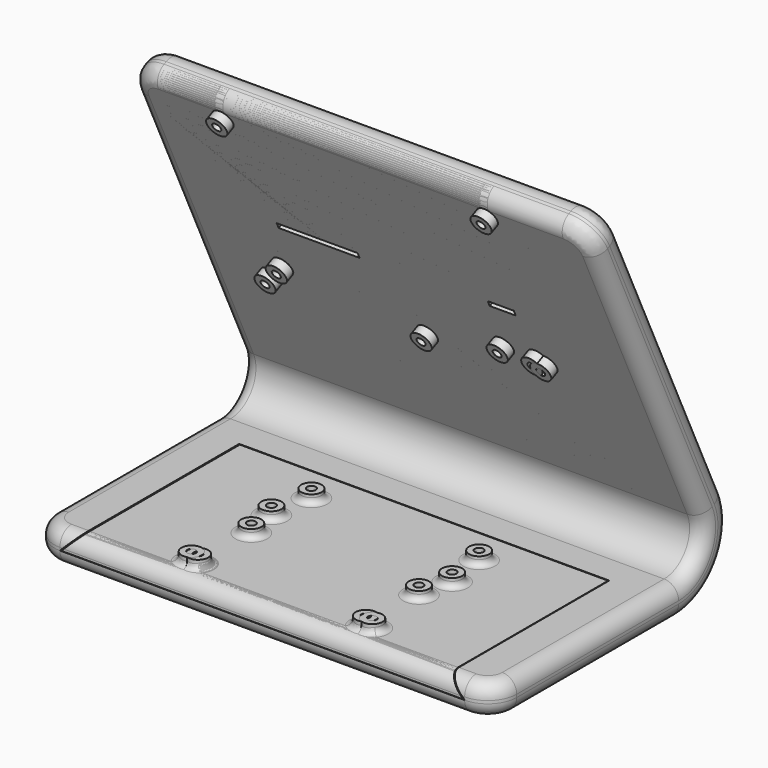
from build123d import *

# Parameters (mm, degrees)
PAD_DEPTH       = 160
SKETCH001_W     = 87
SKETCH001_H     = 130
POCKET_DEPTH    = 2
SKETCH002_W     = 79
SKETCH002_H     = 121
POCKET001_DEPTH = 7
SKETCH003_W     = 2
SKETCH003_H     = 9
SKETCH003_H_2   = 28
POCKET002_DEPTH = 2
SKETCH004_R     = 3.5
SKETCH004_R_2   = 1.5
PAD001_DEPTH    = 3
FILLET_R        = 10
FILLET001_R     = 5
FILLET002_R     = 5
POCKET003_DEPTH = 70
SKETCH014_R     = 1.5
POCKET004_DEPTH = 9
PAD002_DEPTH    = 69.9
FILLET003_R     = 5
SKETCH007_R     = 3.5
SKETCH007_R_2   = 1.5
PAD003_DEPTH    = 3
FILLET005_R     = 2
PAD004_DEPTH    = 69.9
FILLET004_R     = 5
SKETCH011_R     = 3.5
SKETCH011_R_2   = 1.5
PAD005_DEPTH    = 3
FILLET008_R     = 2
PAD006_DEPTH    = 69.9
FILLET006_R     = 5
SKETCH013_R     = 3.5
SKETCH013_R_2   = 1.5
PAD007_DEPTH    = 3
FILLET007_R     = 2
PAD008_DEPTH    = 160
SKETCH016_W     = 87
SKETCH016_H     = 130
POCKET005_DEPTH = 2
SKETCH017_W     = 79
SKETCH017_H     = 121
POCKET006_DEPTH = 7
SKETCH018_W     = 2
SKETCH018_H     = 9
SKETCH018_H_2   = 28
POCKET007_DEPTH = 2
SKETCH019_R     = 3.5
SKETCH019_R_2   = 1.5
PAD009_DEPTH    = 3
FILLET009_R     = 10
FILLET010_R     = 5
FILLET011_R     = 5
POCKET008_DEPTH = 70
SKETCH021_R     = 1.5
POCKET009_DEPTH = 9


with BuildPart() as body:
    # Sketch → Pad (new body)
    with BuildSketch(Plane.YZ):
        with BuildLine():
            Line((0, 0), (80, 0))
            ThreePointArc((80, 0), (98.554587159, 10.1794072517), (99.9387589526, 31.2975772738))
            Line((50.492422329, 137.3355883571), (99.9387589526, 31.2975772738))
            Line((40.5230366716, 132.686787478), (50.492422329, 137.3355883571))
            Line((89.9693732952, 26.6487763947), (40.5230366716, 132.686787478))
            ThreePointArc((80, 11), (89.2772812551, 16.0897029435), (89.9693732952, 26.6487763947))
            Line((0, 11), (80, 11))
            Line((0, 0), (0, 11))
        make_face()
    extrude(amount=PAD_DEPTH)

    # Sketch001 (on Face3 of Pad) → Pocket (cut)
    with BuildSketch(Plane(origin=(0, 94.0767450443, 43.8687066684), x_dir=(0, -0.4226182617, 0.906307787), z_dir=(0, 0.906307787, 0.4226182617))):
        with Locations((44.6292934096, 80)):
            Rectangle(SKETCH001_W, SKETCH001_H)
    extrude(amount=-POCKET_DEPTH, mode=Mode.SUBTRACT)

    # Sketch002 (on Face15 of Pocket) → Pocket001 (cut)
    with BuildSketch(Plane(origin=(0, 92.2641294702, 43.0234701449), x_dir=(0, -0.4226182617, 0.906307787), z_dir=(0, 0.906307787, 0.4226182617))):
        with Locations((46.6292934096, 78.5)):
            Rectangle(SKETCH002_W, SKETCH002_H)
    extrude(amount=-POCKET001_DEPTH, mode=Mode.SUBTRACT)

    # Sketch003 (on Face20 of Pocket001) → Pocket002 (cut)
    with BuildSketch(Plane(origin=(0, 85.9199749609, 40.0651423128), x_dir=(0, -0.4226182617, 0.906307787), z_dir=(0, 0.906307787, 0.4226182617))):
        with Locations((53.1292934096, 113.5)):
            Rectangle(SKETCH003_W, SKETCH003_H)
        with Locations((53.1292934096, 50)):
            Rectangle(SKETCH003_W, SKETCH003_H_2)
    extrude(amount=-POCKET002_DEPTH, mode=Mode.SUBTRACT)

    # Sketch004 (on DatumPlane) → Pad001 (join)
    with BuildSketch(Plane(origin=(0, 84.1073593869, 39.2199057893), x_dir=(0, 0.4226182617, -0.906307787), z_dir=(0, -0.906307787, -0.4226182617))):
        with Locations((-35.1292934096, 120)):
            Circle(SKETCH004_R)
        with Locations((-35.1292934096, 120)):
            Circle(SKETCH004_R_2, mode=Mode.SUBTRACT)
        with Locations((-35.1292934096, 108)):
            Circle(SKETCH004_R)
        with Locations((-35.1292934096, 108)):
            Circle(SKETCH004_R_2, mode=Mode.SUBTRACT)
        with Locations((-27.1292934096, 79)):
            Circle(SKETCH004_R)
        with Locations((-27.1292934096, 79)):
            Circle(SKETCH004_R_2, mode=Mode.SUBTRACT)
        with Locations((-27.1292934096, 25)):
            Circle(SKETCH004_R)
        with Locations((-27.1292934096, 25)):
            Circle(SKETCH004_R_2, mode=Mode.SUBTRACT)
    extrude(amount=PAD001_DEPTH)

    # Fillet
    fillet_edges = [body.edges().sort_by_distance(p)[0] for p in [
        (0, 0, 5.5),
        (160, 0, 5.5),
        (160, 45.50773, 135.011188),
        (0, 45.50773, 135.011188),
    ]]
    fillet(fillet_edges, radius=FILLET_R)

    # Fillet001
    fillet001_edges = [body.edges().sort_by_distance(p)[0] for p in [
        (157.071068, 41.760857, 130.032273),
    ]]
    fillet(fillet001_edges, radius=FILLET001_R)

    # Fillet002
    fillet002_edges = [body.edges().sort_by_distance(p)[0] for p in [
        (157.071068, 2.928932, 0),
    ]]
    fillet(fillet002_edges, radius=FILLET002_R)

    # Sketch005 (on DatumPlane) → Pocket003 (cut)
    with BuildSketch(Plane(origin=(0, 0, 0), x_dir=(0, 0, -1), z_dir=(0, -1, 0))):
        Polygon((-5, 150), (-5, 10), (-11, 16), (-11, 144), align=None)
    extrude(amount=-POCKET003_DEPTH, mode=Mode.SUBTRACT)

    # Sketch014 (on DatumPlane) → Pocket004 (cut)
    with BuildSketch(Plane(origin=(0, 92.2641294702, 43.0234701449), x_dir=(0, -0.4226182617, 0.906307787), z_dir=(0, 0.906307787, 0.4226182617))):
        with Locations((44.6292934096, 140.5)):
            Circle(SKETCH014_R)
    extrude(amount=-POCKET004_DEPTH, mode=Mode.SUBTRACT)


with BuildPart() as body001:
    # Sketch006 → Pad002 (new body)
    with BuildSketch(Plane.XZ):
        Polygon((10.5, 5.1), (149.5, 5.1), (143.7, 10.9), (16.3, 10.9), align=None)
    extrude(amount=-PAD002_DEPTH)

    # Fillet003
    fillet003_edges = [body001.edges().sort_by_distance(p)[0] for p in [
        (80, 0, 10.9),
    ]]
    fillet(fillet003_edges, radius=FILLET003_R)

    # Sketch007 (on DatumPlane) → Pad003 (join)
    with BuildSketch(Plane(origin=(0, 0, 10.9), x_dir=(-1, 0, 0), z_dir=(0, 0, 1))):
        with Locations((-51, -8.5)):
            Circle(SKETCH007_R)
        with Locations((-51, -8.5)):
            Circle(SKETCH007_R_2, mode=Mode.SUBTRACT)
        with Locations((-51, -57.5)):
            Circle(SKETCH007_R)
        with Locations((-51, -57.5)):
            Circle(SKETCH007_R_2, mode=Mode.SUBTRACT)
        with Locations((-109, -57.5)):
            Circle(SKETCH007_R)
        with Locations((-109, -57.5)):
            Circle(SKETCH007_R_2, mode=Mode.SUBTRACT)
        with Locations((-109, -8.5)):
            Circle(SKETCH007_R)
        with Locations((-109, -8.5)):
            Circle(SKETCH007_R_2, mode=Mode.SUBTRACT)
    extrude(amount=PAD003_DEPTH)

    # Fillet005
    fillet005_edges = [body001.edges().sort_by_distance(p)[0] for p in [
        (112.5, 57.5, 10.9),
        (54.5, 57.5, 10.9),
        (106.525126, 6.025126, 10.9),
        (111.474874, 10.974874, 10.9),
        (53.474874, 10.974874, 10.9),
        (48.525126, 6.025126, 10.9),
    ]]
    fillet(fillet005_edges, radius=FILLET005_R)


with BuildPart() as raspi_zero:
    # Sketch010 → Pad004 (new body)
    with BuildSketch(Plane.XZ):
        Polygon((10.5, 5.1), (149.5, 5.1), (143.7, 10.9), (16.3, 10.9), align=None)
    extrude(amount=-PAD004_DEPTH)

    # Fillet004
    fillet004_edges = [raspi_zero.edges().sort_by_distance(p)[0] for p in [
        (80, 0, 10.9),
    ]]
    fillet(fillet004_edges, radius=FILLET004_R)

    # Sketch011 (on DatumPlane) → Pad005 (join)
    with BuildSketch(Plane(origin=(0, 0, 10.9), x_dir=(-1, 0, 0), z_dir=(0, 0, 1))):
        with Locations((-51, -31.5)):
            Circle(SKETCH011_R)
        with Locations((-51, -31.5)):
            Circle(SKETCH011_R_2, mode=Mode.SUBTRACT)
        with Locations((-51, -8.5)):
            Circle(SKETCH011_R)
        with Locations((-51, -8.5)):
            Circle(SKETCH011_R_2, mode=Mode.SUBTRACT)
        with Locations((-109, -8.5)):
            Circle(SKETCH011_R)
        with Locations((-109, -8.5)):
            Circle(SKETCH011_R_2, mode=Mode.SUBTRACT)
        with Locations((-109, -31.5)):
            Circle(SKETCH011_R)
        with Locations((-109, -31.5)):
            Circle(SKETCH011_R_2, mode=Mode.SUBTRACT)
    extrude(amount=PAD005_DEPTH)

    # Fillet008
    fillet008_edges = [raspi_zero.edges().sort_by_distance(p)[0] for p in [
        (54.5, 31.5, 10.9),
        (112.5, 31.5, 10.9),
        (106.525126, 6.025126, 10.9),
        (111.474874, 10.974874, 10.9),
        (48.525126, 6.025126, 10.9),
        (53.474874, 10.974874, 10.9),
    ]]
    fillet(fillet008_edges, radius=FILLET008_R)


with BuildPart() as stm32h743:
    # Sketch012 → Pad006 (new body)
    with BuildSketch(Plane.XZ):
        Polygon((10.5, 5.1), (149.5, 5.1), (143.7, 10.9), (16.3, 10.9), align=None)
    extrude(amount=-PAD006_DEPTH)

    # Fillet006
    fillet006_edges = [stm32h743.edges().sort_by_distance(p)[0] for p in [
        (80, 0, 10.9),
    ]]
    fillet(fillet006_edges, radius=FILLET006_R)

    # Sketch013 (on DatumPlane) → Pad007 (join)
    with BuildSketch(Plane(origin=(0, 0, 10.9), x_dir=(-1, 0, 0), z_dir=(0, 0, 1))):
        with Locations((-48.75, -8.5)):
            Circle(SKETCH013_R)
        with Locations((-48.75, -8.5)):
            Circle(SKETCH013_R_2, mode=Mode.SUBTRACT)
        with Locations((-48.75, -43)):
            Circle(SKETCH013_R)
        with Locations((-48.75, -43)):
            Circle(SKETCH013_R_2, mode=Mode.SUBTRACT)
        with Locations((-111.25, -43)):
            Circle(SKETCH013_R)
        with Locations((-111.25, -43)):
            Circle(SKETCH013_R_2, mode=Mode.SUBTRACT)
        with Locations((-111.25, -8.5)):
            Circle(SKETCH013_R)
        with Locations((-111.25, -8.5)):
            Circle(SKETCH013_R_2, mode=Mode.SUBTRACT)
    extrude(amount=PAD007_DEPTH)

    # Fillet007
    fillet007_edges = [stm32h743.edges().sort_by_distance(p)[0] for p in [
        (114.75, 43, 10.9),
        (52.25, 43, 10.9),
        (108.775126, 6.025126, 10.9),
        (113.724874, 10.974874, 10.9),
        (51.224874, 10.974874, 10.9),
        (46.275126, 6.025126, 10.9),
    ]]
    fillet(fillet007_edges, radius=FILLET007_R)


with BuildPart() as body004:
    # Sketch015 → Pad008 (new body)
    with BuildSketch(Plane.YZ):
        with BuildLine():
            Line((0, 0), (80, 0))
            ThreePointArc((80, 0), (98.554587159, 10.1794072517), (99.9387589526, 31.2975772738))
            Line((50.492422329, 137.3355883571), (99.9387589526, 31.2975772738))
            Line((40.5230366716, 132.686787478), (50.492422329, 137.3355883571))
            Line((89.9693732952, 26.6487763947), (40.5230366716, 132.686787478))
            ThreePointArc((80, 11), (89.2772812551, 16.0897029435), (89.9693732952, 26.6487763947))
            Line((0, 11), (80, 11))
            Line((0, 0), (0, 11))
        make_face()
    extrude(amount=PAD008_DEPTH)

    # Sketch016 (on Face3 of Pad008) → Pocket005 (cut)
    with BuildSketch(Plane(origin=(0, 94.0767450443, 43.8687066684), x_dir=(0, -0.4226182617, 0.906307787), z_dir=(0, 0.906307787, 0.4226182617))):
        with Locations((44.6292934096, 80)):
            Rectangle(SKETCH016_W, SKETCH016_H)
    extrude(amount=-POCKET005_DEPTH, mode=Mode.SUBTRACT)

    # Sketch017 (on Face15 of Pocket005) → Pocket006 (cut)
    with BuildSketch(Plane(origin=(0, 92.2641294702, 43.0234701449), x_dir=(0, -0.4226182617, 0.906307787), z_dir=(0, 0.906307787, 0.4226182617))):
        with Locations((46.6292934096, 78.5)):
            Rectangle(SKETCH017_W, SKETCH017_H)
    extrude(amount=-POCKET006_DEPTH, mode=Mode.SUBTRACT)

    # Sketch018 (on Face20 of Pocket006) → Pocket007 (cut)
    with BuildSketch(Plane(origin=(0, 85.9199749609, 40.0651423128), x_dir=(0, -0.4226182617, 0.906307787), z_dir=(0, 0.906307787, 0.4226182617))):
        with Locations((53.1292934096, 113.5)):
            Rectangle(SKETCH018_W, SKETCH018_H)
        with Locations((53.1292934096, 50)):
            Rectangle(SKETCH018_W, SKETCH018_H_2)
    extrude(amount=-POCKET007_DEPTH, mode=Mode.SUBTRACT)

    # Sketch019 (on DatumPlane) → Pad009 (join)
    with BuildSketch(Plane(origin=(0, 84.1073593869, 39.2199057893), x_dir=(0, 0.4226182617, -0.906307787), z_dir=(0, -0.906307787, -0.4226182617))):
        with Locations((-33.9692934096, 122.66)):
            Circle(SKETCH019_R)
        with Locations((-33.9692934096, 122.66)):
            Circle(SKETCH019_R_2, mode=Mode.SUBTRACT)
        with Locations((-94.9292934096, 122.66)):
            Circle(SKETCH019_R)
        with Locations((-94.9292934096, 122.66)):
            Circle(SKETCH019_R_2, mode=Mode.SUBTRACT)
        with Locations((-94.9292934096, 31.22)):
            Circle(SKETCH019_R)
        with Locations((-94.9292934096, 31.22)):
            Circle(SKETCH019_R_2, mode=Mode.SUBTRACT)
        with Locations((-33.9692934096, 31.22)):
            Circle(SKETCH019_R)
        with Locations((-33.9692934096, 31.22)):
            Circle(SKETCH019_R_2, mode=Mode.SUBTRACT)
    extrude(amount=PAD009_DEPTH)

    # Fillet009
    fillet009_edges = [body004.edges().sort_by_distance(p)[0] for p in [
        (0, 0, 5.5),
        (160, 0, 5.5),
        (160, 45.50773, 135.011188),
        (0, 45.50773, 135.011188),
    ]]
    fillet(fillet009_edges, radius=FILLET009_R)

    # Fillet010
    fillet010_edges = [body004.edges().sort_by_distance(p)[0] for p in [
        (157.071068, 41.760857, 130.032273),
    ]]
    fillet(fillet010_edges, radius=FILLET010_R)

    # Fillet011
    fillet011_edges = [body004.edges().sort_by_distance(p)[0] for p in [
        (157.071068, 2.928932, 0),
    ]]
    fillet(fillet011_edges, radius=FILLET011_R)

    # Sketch020 (on DatumPlane) → Pocket008 (cut)
    with BuildSketch(Plane(origin=(0, 0, 0), x_dir=(0, 0, -1), z_dir=(0, -1, 0))):
        Polygon((-5, 150), (-5, 10), (-11, 16), (-11, 144), align=None)
    extrude(amount=-POCKET008_DEPTH, mode=Mode.SUBTRACT)

    # Sketch021 (on DatumPlane) → Pocket009 (cut)
    with BuildSketch(Plane.YZ.offset(36)):
        with Locations((75.2155906408, 88.8165828155)):
            Circle(SKETCH021_R)
    extrude(amount=-POCKET009_DEPTH, mode=Mode.SUBTRACT)


solid = Compound([body.part, body001.part, raspi_zero.part, stm32h743.part, body004.part])
